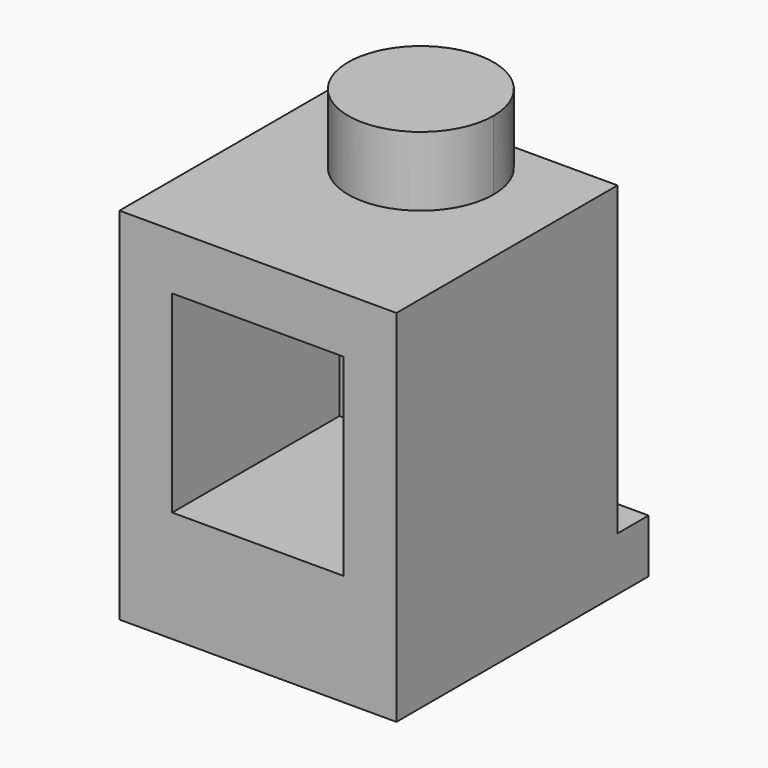
from build123d import *

# Parameters (mm, degrees)
F1_DEPTH  = 7.89
F3_DEPTH  = 9
F4_R      = 1.55
F5_DEPTH  = 25
F6_DEPTH  = 33
F7_R      = 2.53
F7_R_2    = 1.55
F8_DEPTH  = 1.12
F10_DEPTH = 1.98
F11_W     = 5.31
F11_H     = 0.8
F12_DEPTH = 1
F13_W     = 4.8969178084
F13_H     = 5.51
F14_DEPTH = 5.97
F15_R     = 2.46
F16_DEPTH = 2.5


with BuildPart() as f1:
    # F0 (on Front) → F1 (new body)
    with BuildSketch(Plane.XZ):
        Polygon((0, 10.28), (0, 1.53), (1.3, 1.53), (1.3, 2.33), (6.61, 2.33), (6.61, 1.53), (7.91, 1.53), (7.91, 10.28), align=None)
    extrude(amount=F1_DEPTH)

    # F2 (on face) → F3 (join)
    with BuildSketch(Plane.XZ.offset(7.89)):
        Polygon((1.3, 1.53), (0, 1.53), (0, 0), (7.91, 0), (7.91, 1.53), (6.61, 1.53), align=None)
    extrude(amount=-F3_DEPTH)

    # F4 (on face) → F5 (join)
    with BuildSketch(Plane(origin=(0, 0, 0), x_dir=(-1, 0, 0), z_dir=(0, 1, 0))):
        with Locations((-3.955, 6.065)):
            Circle(F4_R)
    extrude(amount=F5_DEPTH)

    # F6 (cut): a face of the model
    f6_faces = [f1.faces().sort_by_distance(p)[0] for p in [
        (3.955, 25, 6.065),
    ]]
    extrude(f6_faces, amount=-F6_DEPTH, mode=Mode.SUBTRACT)

    # F7 (on face) → F8 (join)
    with BuildSketch(Plane(origin=(0, 0, 0), x_dir=(-1, 0, 0), z_dir=(0, 1, 0))):
        with Locations((-3.955, 6.065)):
            Circle(F7_R)
        with Locations((-3.955, 6.065)):
            Circle(F7_R_2, mode=Mode.SUBTRACT)
    extrude(amount=F8_DEPTH)

    # F9 (on face) → F10 (join)
    with BuildSketch(Plane.XY.offset(10.28)):
        with BuildLine():
            ThreePointArc((3.955, 0), (2.487753429, -3.542246571), (6.03, -2.075))
            ThreePointArc((6.03, -2.075), (5.422246571, -0.607753429), (3.955, 0))
        make_face()
    extrude(amount=F10_DEPTH)

    # F11 (on face) → F12 (join)
    with BuildSketch(Plane.XZ.offset(7.89)):
        with Locations((3.955, 1.93)):
            Rectangle(F11_W, F11_H)
    extrude(amount=-F12_DEPTH)

    # F13 (on face) → F14 (cut)
    with BuildSketch(Plane.XZ.offset(7.89)):
        with Locations((3.955, 5.935)):
            Rectangle(F13_W, F13_H)
    extrude(amount=-F14_DEPTH, mode=Mode.SUBTRACT)

    # F15 (on face) → F16 (cut)
    with BuildSketch(Plane(origin=(0, 0, 0), x_dir=(1, 0, 0), z_dir=(0, 0, -1))):
        with Locations((3.955, 3.39)):
            Circle(F15_R)
    extrude(amount=-F16_DEPTH, mode=Mode.SUBTRACT)


solid = f1.part
